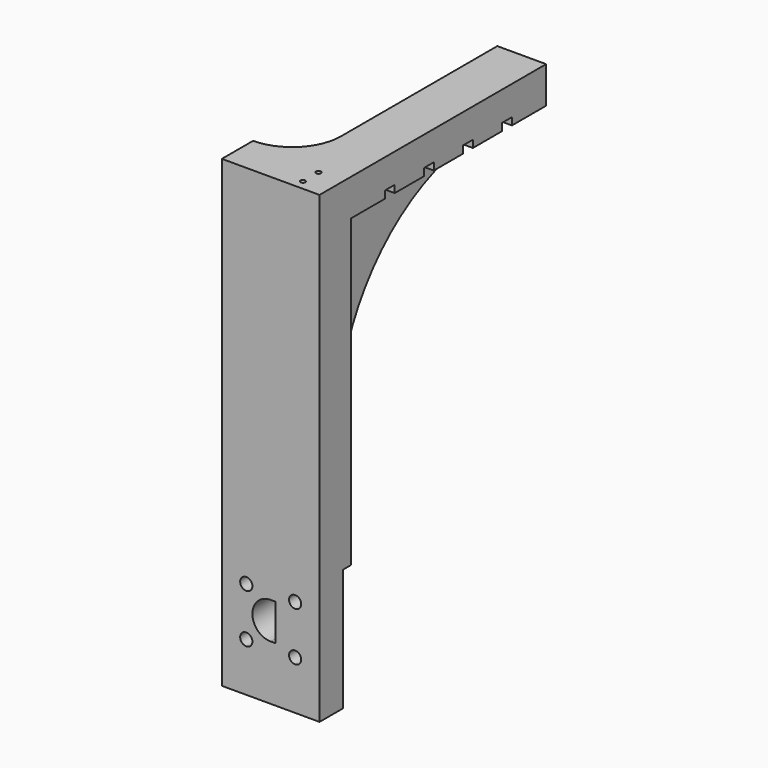
from build123d import *

# Parameters (mm, degrees)
F0_W      = 40
F0_H      = 16
F1_DEPTH  = 190
F2_R      = 2.5
F3_DEPTH  = 20
F4_W      = 40
F4_H      = 50
F5_DEPTH  = 2
F6_W      = 20
F6_H      = 50
F7_DEPTH  = 2
F8_R      = 1
F9_DEPTH  = 20
F10_W     = 10
F10_H     = 75
F11_DEPTH = 100
F13_DEPTH = 10
F14_W     = 20
F14_H     = 5
F15_DEPTH = 3
F17_DEPTH = 15


with BuildPart() as f1:
    # F0 (on Top) → F1 (new body)
    with BuildSketch(Plane.XY):
        with Locations((20, 8)):
            Rectangle(F0_W, F0_H)
    extrude(amount=F1_DEPTH)

    # F2 (on face) → F3 (cut)
    with BuildSketch(Plane.XZ):
        with Locations((10, 40)):
            Circle(F2_R)
        with Locations((30, 40)):
            Circle(F2_R)
        with Locations((10, 20)):
            Circle(F2_R)
        with Locations((30, 20)):
            Circle(F2_R)
        with BuildLine():
            ThreePointArc((20, 37.5), (12.5, 30), (20, 22.5))
            Line((20, 22.5), (22, 22.5))
            Line((22, 22.5), (22, 37.5))
            Line((22, 37.5), (20, 37.5))
        make_face()
    extrude(amount=-F3_DEPTH, mode=Mode.SUBTRACT)

    # F4 (on face) → F5 (cut)
    with BuildSketch(Plane(origin=(0, 16, 0), x_dir=(-1, 0, 0), z_dir=(0, 1, 0))):
        with Locations((-20, 25)):
            Rectangle(F4_W, F4_H)
    extrude(amount=-F5_DEPTH, mode=Mode.SUBTRACT)

    # F6 (on face) → F7 (cut)
    with BuildSketch(Plane(origin=(0, 14, 0), x_dir=(-1, 0, 0), z_dir=(0, 1, 0))):
        with Locations((-30, 25)):
            Rectangle(F6_W, F6_H)
    extrude(amount=-F7_DEPTH, mode=Mode.SUBTRACT)

    # F8 (on face) → F9 (cut)
    with BuildSketch(Plane.XY.offset(190)):
        with Locations((30, 12)):
            Circle(F8_R)
        with Locations((30, 4)):
            Circle(F8_R)
    extrude(amount=-F9_DEPTH, mode=Mode.SUBTRACT)

    # F10 (on face) → F11 (join)
    with BuildSketch(Plane(origin=(0, 16, 0), x_dir=(-1, 0, 0), z_dir=(0, 1, 0))):
        Polygon((-20, 190), (-40, 190), (-40, 175), (-35, 175), (-25, 175), (-20, 175), align=None)
        with Locations((-30, 137.5)):
            Rectangle(F10_W, F10_H)
    extrude(amount=F11_DEPTH)

    # F12 (on face) → F13 (cut)
    with BuildSketch(Plane(origin=(25, 0, 0), x_dir=(0, -1, 0), z_dir=(-1, 0, 0))):
        with BuildLine():
            ThreePointArc((-116, 170.7106781187), (-134.3012701892, 38.7627564304), (-16, 100))
            ThreePointArc((-16, 100), (-37.966991411, 153.033008589), (-91, 175))
            Line((-91, 175), (-91, 100))
            Line((-91, 100), (-116, 100))
            Line((-116, 100), (-116, 170.7106781187))
        make_face()
        with BuildLine():
            Line((-91, 100), (-91, 175))
            ThreePointArc((-91, 175), (-103.6826484044, 173.919891974), (-116, 170.7106781187))
            Line((-116, 170.7106781187), (-116, 100))
            Line((-116, 100), (-91, 100))
        make_face()
        with BuildLine():
            ThreePointArc((-116, 170.7106781187), (-103.6826484044, 173.919891974), (-91, 175))
            Line((-91, 175), (-116, 175))
            Line((-116, 175), (-116, 170.7106781187))
        make_face()
    extrude(amount=-F13_DEPTH, mode=Mode.SUBTRACT)

    # F14 (on face) → F15 (cut)
    with BuildSketch(Plane(origin=(0, 0, 175), x_dir=(1, 0, 0), z_dir=(0, 0, -1))):
        with Locations((30, -96)):
            Rectangle(F14_W, F14_H)
        with Locations((30, -76)):
            Rectangle(F14_W, F14_H)
        with Locations((30, -56)):
            Rectangle(F14_W, F14_H)
        with Locations((30, -36)):
            Rectangle(F14_W, F14_H)
    extrude(amount=-F15_DEPTH, mode=Mode.SUBTRACT)

    # F16 (on face) → F17 (join)
    with BuildSketch(Plane.XY.offset(190)):
        with BuildLine():
            ThreePointArc((20, 36), (14.1421356237, 21.8578643763), (0, 16))
            Line((0, 16), (20, 16))
            Line((20, 16), (20, 36))
        make_face()
    extrude(amount=-F17_DEPTH)


solid = f1.part
